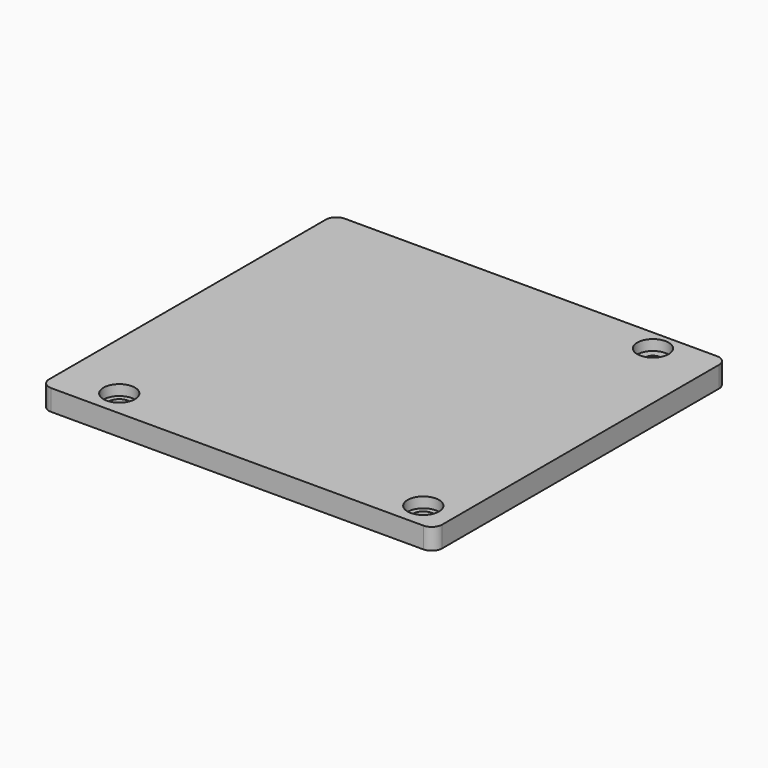
from build123d import *

# Parameters (mm, degrees)
SKETCH_W        = 75
SKETCH_H        = 70
SKETCH_R        = 2
SKETCH_R_2      = 1.5
PAD_DEPTH       = 4
SKETCH001_W     = 30
SKETCH001_H     = 10
SKETCH001_W_2   = 10
SKETCH001_H_2   = 30
POCKET_DEPTH    = 2
SKETCH002_R     = 3
POCKET001_DEPTH = 2
FILLET_R        = 2
FILLET001_R     = 2
FILLET002_R     = 2
FILLET003_R     = 2


with BuildPart() as part:
    # Sketch → Pad (new body)
    with BuildSketch(Plane.XY):
        with Locations((37.5, 35)):
            Rectangle(SKETCH_W, SKETCH_H)
        with Locations((69, 5)):
            Circle(SKETCH_R, mode=Mode.SUBTRACT)
        with Locations((11, 5)):
            Circle(SKETCH_R, mode=Mode.SUBTRACT)
        with Locations((64, 66)):
            Circle(SKETCH_R_2, mode=Mode.SUBTRACT)
    extrude(amount=PAD_DEPTH)

    # Sketch001 → Pocket (cut)
    with BuildSketch(Plane(origin=(0, 0, 0), x_dir=(1, 0, 0), z_dir=(0, 0, -1))):
        with Locations((18, -35)):
            Rectangle(SKETCH001_W, SKETCH001_H)
        with Locations((8, -55)):
            Rectangle(SKETCH001_W_2, SKETCH001_H_2)
    extrude(amount=-POCKET_DEPTH, mode=Mode.SUBTRACT)

    # Sketch002 → Pocket001 (cut)
    with BuildSketch(Plane.XY.offset(4)):
        with Locations((11, 5)):
            Circle(SKETCH002_R)
        with Locations((69, 5)):
            Circle(SKETCH002_R)
        with Locations((64, 66)):
            Circle(SKETCH002_R)
    extrude(amount=-POCKET001_DEPTH, mode=Mode.SUBTRACT)

    # Fillet
    fillet_edges = [part.edges().sort_by_distance(p)[0] for p in [
        (0, 70, 2),
    ]]
    fillet(fillet_edges, radius=FILLET_R)

    # Fillet001
    fillet001_edges = [part.edges().sort_by_distance(p)[0] for p in [
        (75, 70, 2),
    ]]
    fillet(fillet001_edges, radius=FILLET001_R)

    # Fillet002
    fillet002_edges = [part.edges().sort_by_distance(p)[0] for p in [
        (75, 0, 2),
    ]]
    fillet(fillet002_edges, radius=FILLET002_R)

    # Fillet003
    fillet003_edges = [part.edges().sort_by_distance(p)[0] for p in [
        (0, 0, 2),
    ]]
    fillet(fillet003_edges, radius=FILLET003_R)


solid = part.part
